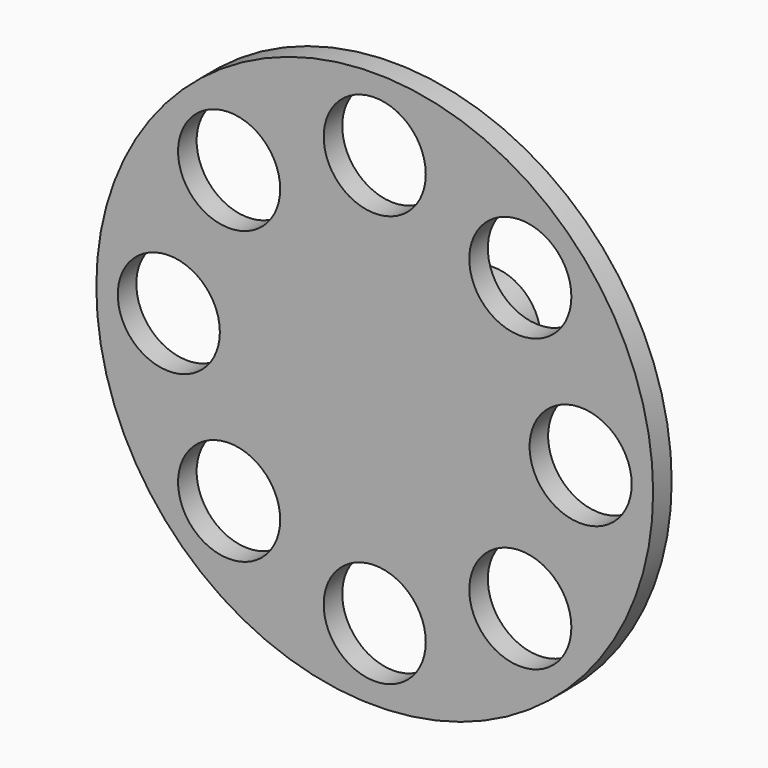
from build123d import *

# Parameters (mm, degrees)
F0_R     = 19.060581
F1_DEPTH = 1.5875
F2_R     = 3.494231
F3_DEPTH = 21.082
F4_R     = 3.237878
F5_DEPTH = 10.16
F6_R     = 1.655878
F7_DEPTH = 9.144


with BuildPart() as f1:
    # F0 (on Front) → F1 (new body)
    with BuildSketch(Plane.XZ):
        Circle(F0_R)
    extrude(amount=-F1_DEPTH)

    # F2 (on face) → F3 (cut)
    with BuildSketch(Plane.XZ):
        with Locations((0, 14.097)):
            Circle(F2_R)
        with Locations((-9.968085, 9.968085)):
            Circle(F2_R)
        with Locations((-14.097, 0)):
            Circle(F2_R)
        with Locations((-9.968085, -9.968085)):
            Circle(F2_R)
        with Locations((0, -14.097)):
            Circle(F2_R)
        with Locations((9.968085, -9.968085)):
            Circle(F2_R)
        with Locations((14.097, 0)):
            Circle(F2_R)
        with Locations((9.968085, 9.968085)):
            Circle(F2_R)
    extrude(amount=-F3_DEPTH, mode=Mode.SUBTRACT)

    # F4 (on Front) → F5 (join)
    with BuildSketch(Plane.XZ):
        Circle(F4_R)
    extrude(amount=-F5_DEPTH)

    # F6 (on face) → F7 (cut)
    with BuildSketch(Plane(origin=(0, 10.16, 0), x_dir=(-1, 0, 0), z_dir=(0, 1, 0))):
        Circle(F6_R)
    extrude(amount=-F7_DEPTH, mode=Mode.SUBTRACT)


solid = f1.part
